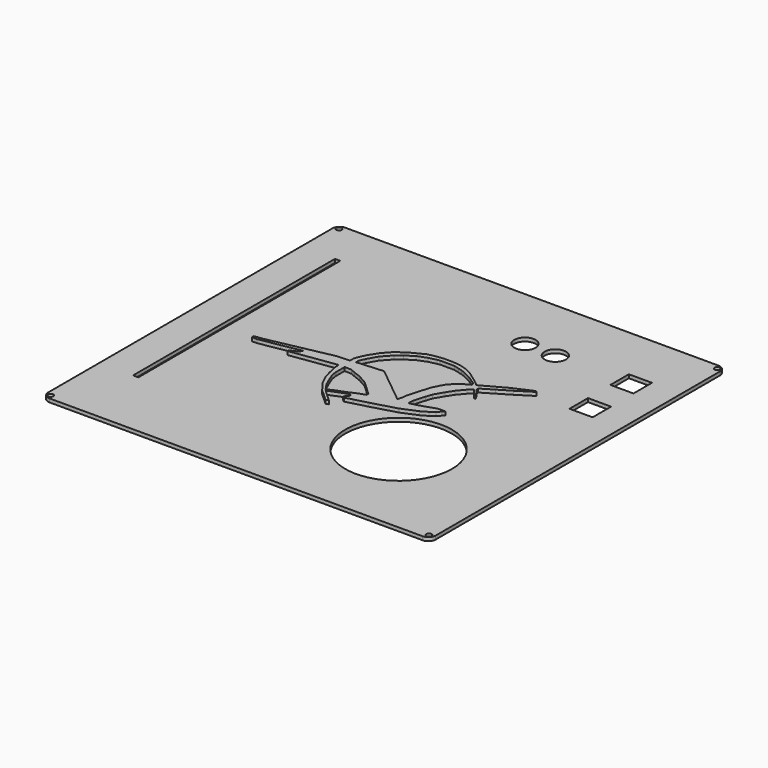
from build123d import *

# Parameters (mm, degrees)
SKETCH_R     = 0.75
SKETCH_R_2   = 15
SKETCH_R_3   = 3
SKETCH_W     = 1.5
SKETCH_H     = 71
SKETCH_W_2   = 6.5
SKETCH_H_2   = 6.5
PAD_DEPTH    = 1
PAD001_DEPTH = 2


with BuildPart() as part:
    # Sketch → Pad (new body)
    with BuildSketch(Plane.XY):
        with BuildLine():
            Line((-54.5, 50), (-54.5, -50))
            ThreePointArc((-54.5, -50), (-53.914214, -51.414214), (-52.5, -52))
            Line((-52.5, -52), (52.5, -52))
            ThreePointArc((52.5, -52), (53.914214, -51.414214), (54.5, -50))
            Line((54.5, -50), (54.5, 50))
            ThreePointArc((54.5, 50), (53.914214, 51.414214), (52.5, 52))
            Line((52.5, 52), (-52.5, 52))
            ThreePointArc((-52.5, 52), (-53.914214, 51.414214), (-54.5, 50))
        make_face()
        with Locations((-53.2, 50.7)):
            Circle(SKETCH_R, mode=Mode.SUBTRACT)
        with Locations((-53.2, -50.7)):
            Circle(SKETCH_R, mode=Mode.SUBTRACT)
        with Locations((53.2, -50.7)):
            Circle(SKETCH_R, mode=Mode.SUBTRACT)
        with Locations((53.2, 50.7)):
            Circle(SKETCH_R, mode=Mode.SUBTRACT)
        with Locations((22.5, -23)):
            Circle(SKETCH_R_2, mode=Mode.SUBTRACT)
        with Locations((12.824393, 33.521584)):
            Circle(SKETCH_R_3, mode=Mode.SUBTRACT)
        with Locations((21.542665, 33.324928)):
            Circle(SKETCH_R_3, mode=Mode.SUBTRACT)
        with Locations((-44.25, 3.5)):
            Rectangle(SKETCH_W, SKETCH_H, mode=Mode.SUBTRACT)
        with Locations((43.024296, 18.756004)):
            Rectangle(SKETCH_W_2, SKETCH_H_2, mode=Mode.SUBTRACT)
        with Locations((42.950272, 33.221375)):
            Rectangle(SKETCH_W_2, SKETCH_H_2, mode=Mode.SUBTRACT)
    extrude(amount=PAD_DEPTH)

    # Sketch002 → Pad001 (join)
    with BuildSketch(Plane.XY):
        Polygon((-34.773251, -3), (-34.749931, -2.337135), (-32.266365, -2), (-14.521888, 1.618207), (-11, 1.792153), (-11, 3), (-10.590711, 4.262184), (-9.755771, 6), (-8, 8.77106), (-6, 11), (-3, 13), (0.374559, 14.713974), (2.2, 15.1), (4.455713, 15.401265), (6.786591, 15.401265), (9, 15.22211), (11.437481, 14.54372), (13, 13.75457), (14.38553, 12.771906), (16, 11.618343), (18, 10), (24.546326, 13.584305), (30, 16), (30.289629, 15.70633), (26, 13), (22.625736, 11), (19.304169, 9), (19.304169, 8.492273), (20.679504, 6.520093), (20.705454, 6.260595), (20.290258, 6.312495), (18.85984, 8.1), (17.692602, 7), (16, 5), (14.708381, 3), (13.255195, 0.51859), (12.667271, -1.261222), (11.79619, -4.363118), (11.64747, -6), (13.75081, -5.552886), (15.429233, -5), (18.4249, -4), (20.443256, -4), (20, -4.55433), (19, -5.467902), (17.793219, -6.430947), (16, -7.474626), (11.618122, -9.301063), (4.782028, -11.249263), (1, -12.236397), (-1, -12.793026), (-1.547702, -12.462527), (-0.623532, -11.427116), (-0.6, -10.9), (-1, -10.745091), (-1.8, -10.925249), (-6.248158, -12.696156), (-2.838245, -15.840145), (-3.4, -16.256224), (-7, -13), (-9.221251, -10), (-10.394289, -7.518017), (-11, -5.353436), (-11.584344, -2.590018), (-11.665963, -1.389038), (-24.521864, -3.237807), (-24.550348, -2.782077), (-23.425266, -2.369072), (-22.214733, -1.656995), (-22, -1), (-27.459188, -2), (-33.301292, -3), align=None)
        Polygon((-10, -1.335219), (-8, -1.407553), (-6.690357, -2), (-4.764454, -2.731958), (-3.311275, -3.510448), (-2, -4.288938), (2, -8), (2, -8.466834), (2, -8.70038), (0.29573, -9.245323), (-0.664407, -9.686468), (-2, -10.28331), (-5.257498, -11.528893), (-6.633207, -12.253425), (-8, -10.248709), (-9, -8), (-9.782376, -6), (-10, -4.410032), align=None, mode=Mode.SUBTRACT)
        Polygon((-9.476856, 2), (-9.476856, 3), (-8.70385, 4.620335), (-7.235143, 7.237054), (-5, 9.697773), (-3.364116, 11), (-1, 12.533089), (1.568817, 13.51206), (3.648072, 14), (4.4, 14.148623), (7.4, 14.148623), (8.464255, 14.148623), (10, 13.747993), (11, 13.469228), (12.048037, 13.1), (13.953865, 12.172708), (15.3, 11.346745), (17, 10.170516), (17.033005, 9.447416), (15.575068, 8.67393), (13.726978, 7.225599), (13, 6.481995), (12.600948, 6), (12, 5), (11, 3), (10.22023, 0.508264), (9.364268, -2.641001), (9, -3.782789), (9, -4.716979), (8.549188, -6), (-2, 2.543029), align=None, mode=Mode.SUBTRACT)
    extrude(amount=PAD001_DEPTH)


solid = part.part
